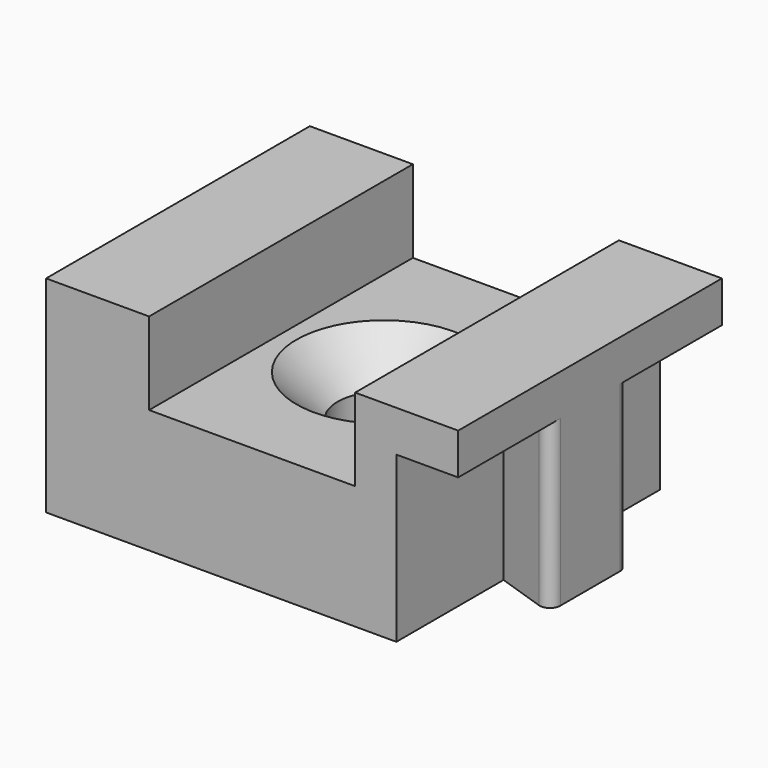
from build123d import *

# Parameters (mm, degrees)
PAD_DEPTH    = 8
FILLET_R     = 0.5
SKETCH002_W  = 5
SKETCH002_H  = 16
PAD002_DEPTH = 2
SKETCH001_W  = 10
SKETCH001_H  = 16
SKETCH001_R  = 2.25
PAD001_DEPTH = 6
CHAMFER_SIZE = 2


with BuildPart() as obj1:
    # Sketch → Pad (new body)
    with BuildSketch(Plane.XY):
        Polygon((0, 0), (5, 0), (5, -16), (0, -16), (0, -10), (3, -11), (3, -5), (0, -6), align=None)
        Polygon((15, 0), (15, -16), (17, -16), (17, -9.5), (20, -10.5), (20, -5.5), (17, -6.5), (17, 0), align=None)
    extrude(amount=PAD_DEPTH)

    # Fillet
    fillet_edges = [obj1.edges().sort_by_distance(p)[0] for p in [
        (0, -6, 4),
        (0, -10, 4),
        (20, -5.5, 4),
        (20, -10.5, 4),
    ]]
    fillet(fillet_edges, radius=FILLET_R)


with BuildPart() as pad002:
    # Sketch002 → Pad002 (new body)
    with BuildSketch(Plane.XY.offset(8)):
        with Locations((2.5, -8)):
            Rectangle(SKETCH002_W, SKETCH002_H)
        with Locations((17.5, -8)):
            Rectangle(SKETCH002_W, SKETCH002_H)
    extrude(amount=PAD002_DEPTH)


with BuildPart() as fusion:
    # Sketch001 → Pad001 (new body)
    with BuildSketch(Plane.XY):
        with Locations((10, -8)):
            Rectangle(SKETCH001_W, SKETCH001_H)
        with Locations((10, -8)):
            Circle(SKETCH001_R, mode=Mode.SUBTRACT)
    extrude(amount=PAD001_DEPTH)

    # Chamfer
    chamfer_edges = [fusion.edges().sort_by_distance(p)[0] for p in [
        (7.75, -8, 6),
    ]]
    chamfer(chamfer_edges, length=CHAMFER_SIZE)

    # Fusion: union obj1, Pad002
    add(obj1.part)
    add(pad002.part)


solid = fusion.part
